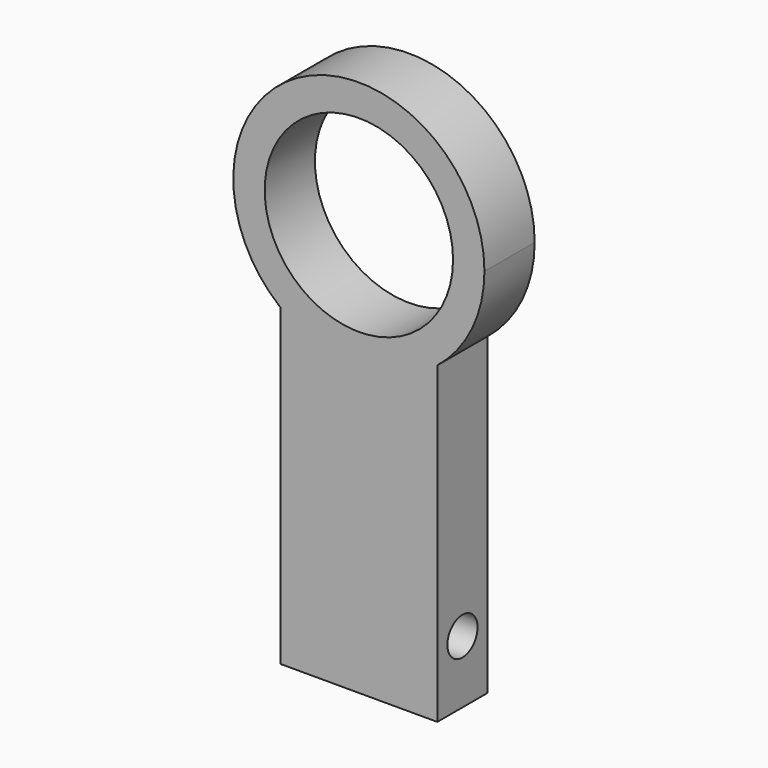
from build123d import *

# Parameters (mm, degrees)
F0_R     = 15
F1_DEPTH = 10
F3_D     = 6


with BuildPart() as f1:
    # F0 (on Front) → F1 (new body)
    with BuildSketch(Plane.XZ):
        with BuildLine():
            ThreePointArc((12.5, -15.612495), (18.027756, -8.660254), (20, 0))
            ThreePointArc((20, 0), (-8.660254, 18.027756), (-12.5, -15.612495))
            Line((-12.5, -15.612495), (12.5, -15.612495))
        make_face()
        Circle(F0_R, mode=Mode.SUBTRACT)
        with BuildLine():
            ThreePointArc((12.5, -15.612495), (0, -20), (-12.5, -15.612495))
            Line((-12.5, -15.612495), (-12.5, -65.612495))
            Line((-12.5, -65.612495), (12.5, -65.612495))
            Line((12.5, -65.612495), (12.5, -15.612495))
        make_face()
        with BuildLine():
            Line((12.5, -15.612495), (-12.5, -15.612495))
            ThreePointArc((-12.5, -15.612495), (0, -20), (12.5, -15.612495))
        make_face()
    extrude(amount=F1_DEPTH)

    # F3 (through all)
    with Locations(Plane.YZ.offset(12.5)):
        with Locations((-5, -55.612495)):
            Hole(F3_D / 2)


solid = f1.part
